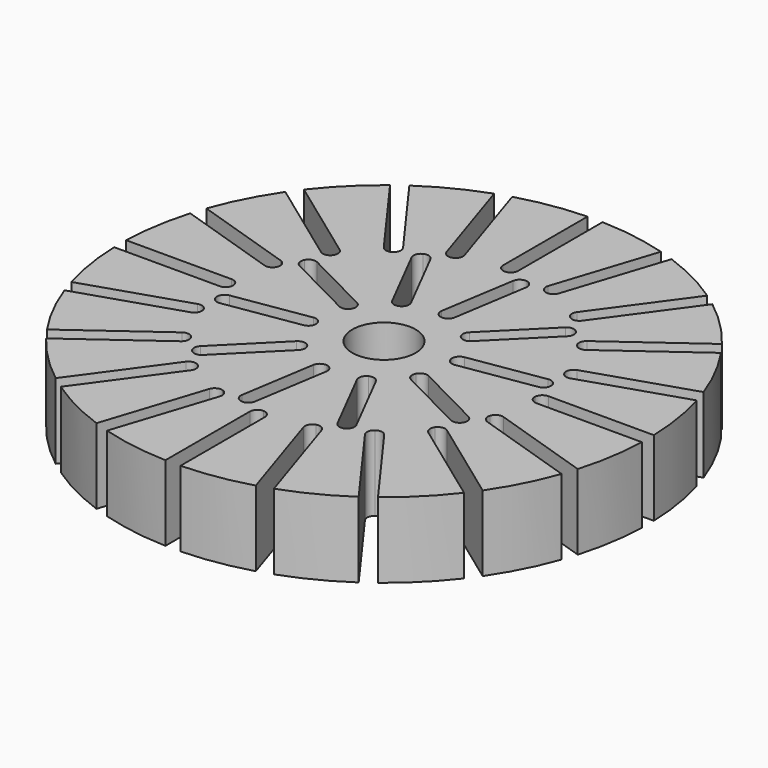
from build123d import *

# Parameters (mm, degrees)
F0_R     = 35
F1_DEPTH = 10
F4_DEPTH = 10
F6_DEPTH = 10
F2_R     = 4.2
F7_DEPTH = 10


with BuildPart() as f1:
    # F0 (on Top) → F1 (new body)
    with BuildSketch(Plane.XY):
        Circle(F0_R)
    extrude(amount=F1_DEPTH)

    # F3 (on face) → F4 (cut, through all)
    with BuildSketch(Plane.XY.offset(10)):
        with BuildLine():
            Line((1, 35), (-1, 35))
            Line((-1, 35), (-1, 21))
            ThreePointArc((-1, 21), (-0.707107, 20.292893), (0, 20))
            ThreePointArc((0, 20), (0.707107, 20.292893), (1, 21))
            Line((1, 21), (1, 35))
        make_face()
        with BuildLine():
            Line((-9.864538, 33.595995), (-11.766651, 32.977961))
            Line((-11.766651, 32.977961), (-7.440413, 19.66317))
            ThreePointArc((-7.440413, 19.66317), (-6.943347, 19.08118), (-6.18034, 19.02113))
            ThreePointArc((-6.18034, 19.02113), (-5.59835, 19.518196), (-5.5383, 20.281204))
            Line((-5.5383, 20.281204), (-9.864538, 33.595995))
        make_face()
        with BuildLine():
            Line((-19.763467, 28.90338), (-21.381501, 27.72781))
            Line((-21.381501, 27.72781), (-13.152507, 16.401572))
            ThreePointArc((-13.152507, 16.401572), (-12.499925, 16.001669), (-11.755705, 16.18034))
            ThreePointArc((-11.755705, 16.18034), (-11.355802, 16.832922), (-11.534473, 17.577142))
            Line((-11.534473, 17.577142), (-19.763467, 28.90338))
        make_face()
        with BuildLine():
            Line((-27.72781, 21.381501), (-28.90338, 19.763467))
            Line((-28.90338, 19.763467), (-17.577142, 11.534473))
            ThreePointArc((-17.577142, 11.534473), (-16.832922, 11.355802), (-16.18034, 11.755705))
            ThreePointArc((-16.18034, 11.755705), (-16.001669, 12.499925), (-16.401572, 13.152507))
            Line((-16.401572, 13.152507), (-27.72781, 21.381501))
        make_face()
        with BuildLine():
            Line((-32.977961, 11.766651), (-33.595995, 9.864538))
            Line((-33.595995, 9.864538), (-20.281204, 5.5383))
            ThreePointArc((-20.281204, 5.5383), (-19.518196, 5.59835), (-19.02113, 6.18034))
            ThreePointArc((-19.02113, 6.18034), (-19.08118, 6.943347), (-19.66317, 7.440413))
            Line((-19.66317, 7.440413), (-32.977961, 11.766651))
        make_face()
        with BuildLine():
            Line((-35, 1), (-35, -1))
            Line((-35, -1), (-21, -1))
            ThreePointArc((-21, -1), (-20.292893, -0.707107), (-20, 0))
            ThreePointArc((-20, 0), (-20.292893, 0.707107), (-21, 1))
            Line((-21, 1), (-35, 1))
        make_face()
        with BuildLine():
            Line((-33.595995, -9.864538), (-32.977961, -11.766651))
            Line((-32.977961, -11.766651), (-19.66317, -7.440413))
            ThreePointArc((-19.66317, -7.440413), (-19.08118, -6.943347), (-19.02113, -6.18034))
            ThreePointArc((-19.02113, -6.18034), (-19.518196, -5.59835), (-20.281204, -5.5383))
            Line((-20.281204, -5.5383), (-33.595995, -9.864538))
        make_face()
        with BuildLine():
            Line((-28.90338, -19.763467), (-27.72781, -21.381501))
            Line((-27.72781, -21.381501), (-16.401572, -13.152507))
            ThreePointArc((-16.401572, -13.152507), (-16.001669, -12.499925), (-16.18034, -11.755705))
            ThreePointArc((-16.18034, -11.755705), (-16.832922, -11.355802), (-17.577142, -11.534473))
            Line((-17.577142, -11.534473), (-28.90338, -19.763467))
        make_face()
        with BuildLine():
            Line((-21.381501, -27.72781), (-19.763467, -28.90338))
            Line((-19.763467, -28.90338), (-11.534473, -17.577142))
            ThreePointArc((-11.534473, -17.577142), (-11.355802, -16.832922), (-11.755705, -16.18034))
            ThreePointArc((-11.755705, -16.18034), (-12.499925, -16.001669), (-13.152507, -16.401572))
            Line((-13.152507, -16.401572), (-21.381501, -27.72781))
        make_face()
        with BuildLine():
            Line((-11.766651, -32.977961), (-9.864538, -33.595995))
            Line((-9.864538, -33.595995), (-5.5383, -20.281204))
            ThreePointArc((-5.5383, -20.281204), (-5.59835, -19.518196), (-6.18034, -19.02113))
            ThreePointArc((-6.18034, -19.02113), (-6.943347, -19.08118), (-7.440413, -19.66317))
            Line((-7.440413, -19.66317), (-11.766651, -32.977961))
        make_face()
        with BuildLine():
            Line((-1, -35), (1, -35))
            Line((1, -35), (1, -21))
            ThreePointArc((1, -21), (0.707107, -20.292893), (0, -20))
            ThreePointArc((0, -20), (-0.707107, -20.292893), (-1, -21))
            Line((-1, -21), (-1, -35))
        make_face()
        with BuildLine():
            Line((9.864538, -33.595995), (11.766651, -32.977961))
            Line((11.766651, -32.977961), (7.440413, -19.66317))
            ThreePointArc((7.440413, -19.66317), (6.943347, -19.08118), (6.18034, -19.02113))
            ThreePointArc((6.18034, -19.02113), (5.59835, -19.518196), (5.5383, -20.281204))
            Line((5.5383, -20.281204), (9.864538, -33.595995))
        make_face()
        with BuildLine():
            Line((19.763467, -28.90338), (21.381501, -27.72781))
            Line((21.381501, -27.72781), (13.152507, -16.401572))
            ThreePointArc((13.152507, -16.401572), (12.499925, -16.001669), (11.755705, -16.18034))
            ThreePointArc((11.755705, -16.18034), (11.355802, -16.832922), (11.534473, -17.577142))
            Line((11.534473, -17.577142), (19.763467, -28.90338))
        make_face()
        with BuildLine():
            Line((27.72781, -21.381501), (28.90338, -19.763467))
            Line((28.90338, -19.763467), (17.577142, -11.534473))
            ThreePointArc((17.577142, -11.534473), (16.832922, -11.355802), (16.18034, -11.755705))
            ThreePointArc((16.18034, -11.755705), (16.001669, -12.499925), (16.401572, -13.152507))
            Line((16.401572, -13.152507), (27.72781, -21.381501))
        make_face()
        with BuildLine():
            Line((32.977961, -11.766651), (33.595995, -9.864538))
            Line((33.595995, -9.864538), (20.281204, -5.5383))
            ThreePointArc((20.281204, -5.5383), (19.518196, -5.59835), (19.02113, -6.18034))
            ThreePointArc((19.02113, -6.18034), (19.08118, -6.943347), (19.66317, -7.440413))
            Line((19.66317, -7.440413), (32.977961, -11.766651))
        make_face()
        with BuildLine():
            Line((35, -1), (35, 1))
            Line((35, 1), (21, 1))
            ThreePointArc((21, 1), (20.292893, 0.707107), (20, 0))
            ThreePointArc((20, 0), (20.292893, -0.707107), (21, -1))
            Line((21, -1), (35, -1))
        make_face()
        with BuildLine():
            Line((33.595995, 9.864538), (32.977961, 11.766651))
            Line((32.977961, 11.766651), (19.66317, 7.440413))
            ThreePointArc((19.66317, 7.440413), (19.08118, 6.943347), (19.02113, 6.18034))
            ThreePointArc((19.02113, 6.18034), (19.518196, 5.59835), (20.281204, 5.5383))
            Line((20.281204, 5.5383), (33.595995, 9.864538))
        make_face()
        with BuildLine():
            Line((28.90338, 19.763467), (27.72781, 21.381501))
            Line((27.72781, 21.381501), (16.401572, 13.152507))
            ThreePointArc((16.401572, 13.152507), (16.001669, 12.499925), (16.18034, 11.755705))
            ThreePointArc((16.18034, 11.755705), (16.832922, 11.355802), (17.577142, 11.534473))
            Line((17.577142, 11.534473), (28.90338, 19.763467))
        make_face()
        with BuildLine():
            Line((21.381501, 27.72781), (19.763467, 28.90338))
            Line((19.763467, 28.90338), (11.534473, 17.577142))
            ThreePointArc((11.534473, 17.577142), (11.355802, 16.832922), (11.755705, 16.18034))
            ThreePointArc((11.755705, 16.18034), (12.499925, 16.001669), (13.152507, 16.401572))
            Line((13.152507, 16.401572), (21.381501, 27.72781))
        make_face()
        with BuildLine():
            Line((11.766651, 32.977961), (9.864538, 33.595995))
            Line((9.864538, 33.595995), (5.5383, 20.281204))
            ThreePointArc((5.5383, 20.281204), (5.59835, 19.518196), (6.18034, 19.02113))
            ThreePointArc((6.18034, 19.02113), (6.943347, 19.08118), (7.440413, 19.66317))
            Line((7.440413, 19.66317), (11.766651, 32.977961))
        make_face()
    extrude(amount=-F4_DEPTH, mode=Mode.SUBTRACT)

    # F5 (on face) → F6 (cut, through all)
    with BuildSketch(Plane.XY.offset(10)):
        with BuildLine():
            ThreePointArc((1.251476, 7.901507), (1.995695, 8.080178), (2.395599, 8.732761))
            Line((2.395599, 8.732761), (3.959943, 18.609644))
            ThreePointArc((3.959943, 18.609644), (3.781272, 19.353864), (3.128689, 19.753767))
            ThreePointArc((3.128689, 19.753767), (2.38447, 19.575095), (1.984566, 18.922513))
            Line((1.984566, 18.922513), (0.420222, 9.04563))
            ThreePointArc((0.420222, 9.04563), (0.598893, 8.30141), (1.251476, 7.901507))
        make_face()
        with BuildLine():
            ThreePointArc((-3.631924, 7.128052), (-3.134858, 7.710042), (-3.194908, 8.473049))
            Line((-3.194908, 8.473049), (-7.734813, 17.383114))
            ThreePointArc((-7.734813, 17.383114), (-8.316803, 17.88018), (-9.07981, 17.82013))
            ThreePointArc((-9.07981, 17.82013), (-9.576876, 17.238141), (-9.516826, 16.475133))
            Line((-9.516826, 16.475133), (-4.976921, 7.565068))
            ThreePointArc((-4.976921, 7.565068), (-4.394931, 7.068002), (-3.631924, 7.128052))
        make_face()
        with BuildLine():
            ThreePointArc((-7.128052, 3.631924), (-7.068002, 4.394931), (-7.565068, 4.976921))
            Line((-7.565068, 4.976921), (-16.475133, 9.516826))
            ThreePointArc((-16.475133, 9.516826), (-17.238141, 9.576876), (-17.82013, 9.07981))
            ThreePointArc((-17.82013, 9.07981), (-17.88018, 8.316803), (-17.383114, 7.734813))
            Line((-17.383114, 7.734813), (-8.473049, 3.194908))
            ThreePointArc((-8.473049, 3.194908), (-7.710042, 3.134858), (-7.128052, 3.631924))
        make_face()
        with BuildLine():
            Line((-18.609644, -3.959943), (-8.732761, -2.395599))
            ThreePointArc((-8.732761, -2.395599), (-8.080178, -1.995695), (-7.901507, -1.251476))
            ThreePointArc((-7.901507, -1.251476), (-8.30141, -0.598893), (-9.04563, -0.420222))
            Line((-9.04563, -0.420222), (-18.922513, -1.984566))
            ThreePointArc((-18.922513, -1.984566), (-19.575095, -2.38447), (-19.753767, -3.128689))
            ThreePointArc((-19.753767, -3.128689), (-19.353864, -3.781272), (-18.609644, -3.959943))
        make_face()
        with BuildLine():
            Line((-12.727922, -14.142136), (-5.656854, -7.071068))
            ThreePointArc((-5.656854, -7.071068), (-5.363961, -6.363961), (-5.656854, -5.656854))
            ThreePointArc((-5.656854, -5.656854), (-6.363961, -5.363961), (-7.071068, -5.656854))
            Line((-7.071068, -5.656854), (-14.142136, -12.727922))
            ThreePointArc((-14.142136, -12.727922), (-14.435029, -13.435029), (-14.142136, -14.142136))
            ThreePointArc((-14.142136, -14.142136), (-13.435029, -14.435029), (-12.727922, -14.142136))
        make_face()
        with BuildLine():
            Line((-1.984566, -18.922513), (-0.420222, -9.04563))
            ThreePointArc((-0.420222, -9.04563), (-0.598893, -8.30141), (-1.251476, -7.901507))
            ThreePointArc((-1.251476, -7.901507), (-1.995695, -8.080178), (-2.395599, -8.732761))
            Line((-2.395599, -8.732761), (-3.959943, -18.609644))
            ThreePointArc((-3.959943, -18.609644), (-3.781272, -19.353864), (-3.128689, -19.753767))
            ThreePointArc((-3.128689, -19.753767), (-2.38447, -19.575095), (-1.984566, -18.922513))
        make_face()
        with BuildLine():
            Line((9.516826, -16.475133), (4.976921, -7.565068))
            ThreePointArc((4.976921, -7.565068), (4.394931, -7.068002), (3.631924, -7.128052))
            ThreePointArc((3.631924, -7.128052), (3.134858, -7.710042), (3.194908, -8.473049))
            Line((3.194908, -8.473049), (7.734813, -17.383114))
            ThreePointArc((7.734813, -17.383114), (8.316803, -17.88018), (9.07981, -17.82013))
            ThreePointArc((9.07981, -17.82013), (9.576876, -17.238141), (9.516826, -16.475133))
        make_face()
        with BuildLine():
            Line((17.383114, -7.734813), (8.473049, -3.194908))
            ThreePointArc((8.473049, -3.194908), (7.710042, -3.134858), (7.128052, -3.631924))
            ThreePointArc((7.128052, -3.631924), (7.068002, -4.394931), (7.565068, -4.976921))
            Line((7.565068, -4.976921), (16.475133, -9.516826))
            ThreePointArc((16.475133, -9.516826), (17.238141, -9.576876), (17.82013, -9.07981))
            ThreePointArc((17.82013, -9.07981), (17.88018, -8.316803), (17.383114, -7.734813))
        make_face()
        with BuildLine():
            Line((18.609644, 3.959943), (8.732761, 2.395599))
            ThreePointArc((8.732761, 2.395599), (8.080178, 1.995695), (7.901507, 1.251476))
            ThreePointArc((7.901507, 1.251476), (8.30141, 0.598893), (9.04563, 0.420222))
            Line((9.04563, 0.420222), (18.922513, 1.984566))
            ThreePointArc((18.922513, 1.984566), (19.575095, 2.38447), (19.753767, 3.128689))
            ThreePointArc((19.753767, 3.128689), (19.353864, 3.781272), (18.609644, 3.959943))
        make_face()
        with BuildLine():
            Line((12.727922, 14.142136), (5.656854, 7.071068))
            ThreePointArc((5.656854, 7.071068), (5.363961, 6.363961), (5.656854, 5.656854))
            ThreePointArc((5.656854, 5.656854), (6.363961, 5.363961), (7.071068, 5.656854))
            Line((7.071068, 5.656854), (14.142136, 12.727922))
            ThreePointArc((14.142136, 12.727922), (14.435029, 13.435029), (14.142136, 14.142136))
            ThreePointArc((14.142136, 14.142136), (13.435029, 14.435029), (12.727922, 14.142136))
        make_face()
    extrude(amount=-F6_DEPTH, mode=Mode.SUBTRACT)

    # F2 (on face) → F7 (cut, through all)
    with BuildSketch(Plane.XY.offset(10)):
        Circle(F2_R)
    extrude(amount=-F7_DEPTH, mode=Mode.SUBTRACT)


solid = f1.part
